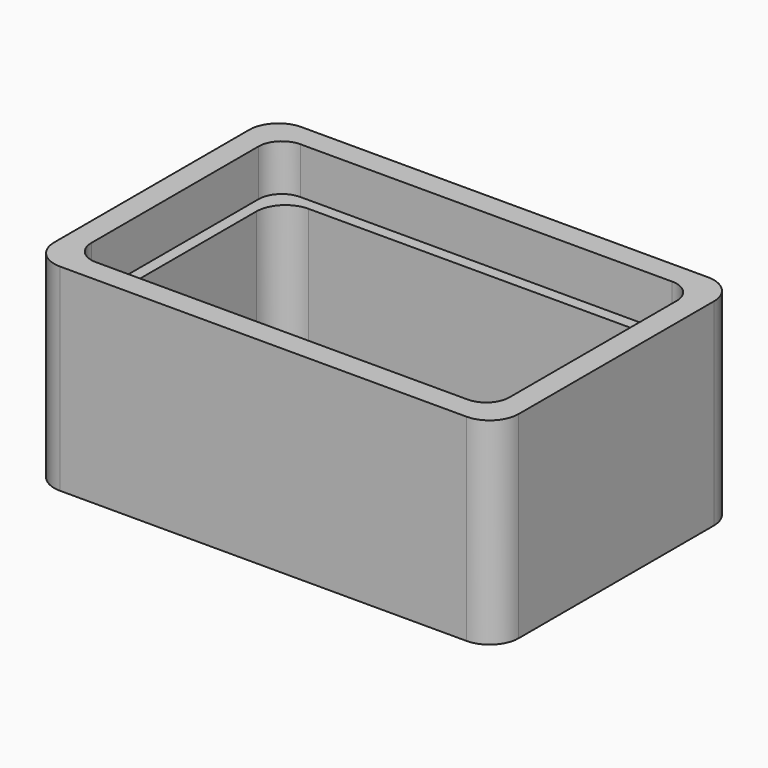
from build123d import *

# Parameters (mm, degrees)
F1_DEPTH = 1.5
F3_DEPTH = 7
F5_DEPTH = 2


with BuildPart() as f1:
    # F0 (on Top) → F1 (new body)
    with BuildSketch(Plane.XY):
        with BuildLine():
            Line((8.75, 6.5), (-8.75, 6.5))
            ThreePointArc((-8.75, 6.5), (-9.633883, 6.133883), (-10, 5.25))
            Line((-10, 5.25), (-10, -5.25))
            ThreePointArc((-10, -5.25), (-9.633883, -6.133883), (-8.75, -6.5))
            Line((-8.75, -6.5), (8.75, -6.5))
            ThreePointArc((8.75, -6.5), (9.633883, -6.133883), (10, -5.25))
            Line((10, -5.25), (10, 5.25))
            ThreePointArc((10, 5.25), (9.633883, 6.133883), (8.75, 6.5))
        make_face()
    extrude(amount=F1_DEPTH)

    # F2 (on face) → F3 (join)
    with BuildSketch(Plane.XY.offset(1.5)):
        with BuildLine():
            ThreePointArc((10, 5.25), (9.633883, 6.133883), (8.75, 6.5))
            Line((8.75, 6.5), (-8.75, 6.5))
            ThreePointArc((-8.75, 6.5), (-9.633883, 6.133883), (-10, 5.25))
            Line((-10, 5.25), (-10, -5.25))
            ThreePointArc((-10, -5.25), (-9.633883, -6.133883), (-8.75, -6.5))
            Line((-8.75, -6.5), (8.75, -6.5))
            ThreePointArc((8.75, -6.5), (9.633883, -6.133883), (10, -5.25))
            Line((10, -5.25), (10, 5.25))
        make_face()
        with BuildLine():
            ThreePointArc((-8.5, 3.75), (-8.133883, 4.633883), (-7.25, 5))
            Line((-7.25, 5), (7.25, 5))
            ThreePointArc((7.25, 5), (8.133883, 4.633883), (8.5, 3.75))
            Line((8.5, 3.75), (8.5, -3.75))
            ThreePointArc((8.5, -3.75), (8.133883, -4.633883), (7.25, -5))
            Line((7.25, -5), (-7.25, -5))
            ThreePointArc((-7.25, -5), (-8.133883, -4.633883), (-8.5, -3.75))
            Line((-8.5, -3.75), (-8.5, 3.75))
        make_face(mode=Mode.SUBTRACT)
    extrude(amount=F3_DEPTH)

    # F4 (on face) → F5 (cut)
    with BuildSketch(Plane.XY.offset(8.5)):
        with BuildLine():
            Line((8, 5.5), (-8, 5.5))
            ThreePointArc((-8, 5.5), (-8.707107, 5.207107), (-9, 4.5))
            Line((-9, 4.5), (-9, -4.5))
            ThreePointArc((-9, -4.5), (-8.707107, -5.207107), (-8, -5.5))
            Line((-8, -5.5), (8, -5.5))
            ThreePointArc((8, -5.5), (8.707107, -5.207107), (9, -4.5))
            Line((9, -4.5), (9, 4.5))
            ThreePointArc((9, 4.5), (8.707107, 5.207107), (8, 5.5))
        make_face()
    extrude(amount=-F5_DEPTH, mode=Mode.SUBTRACT)


solid = f1.part
